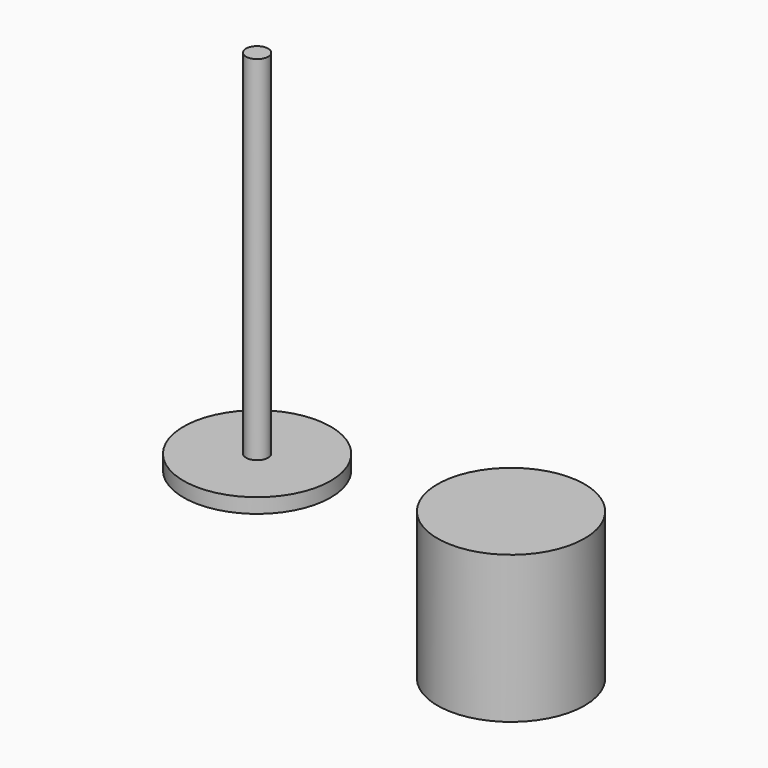
from build123d import *

# Parameters (mm, degrees)
F0_R     = 5
F0_R_2   = 0.75
F1_DEPTH = 1
F2_R     = 0.75
F3_DEPTH = 25
F4_R     = 5
F6_DEPTH = 10
F5_R     = 0.775
F7_DEPTH = 3.5


with BuildPart() as f1:
    # F0 (on Top) → F1 (new body)
    with BuildSketch(Plane.XY):
        Circle(F0_R)
        Circle(F0_R_2, mode=Mode.SUBTRACT)
    extrude(amount=F1_DEPTH)

    # F2 (on Top) → F3 (join)
    with BuildSketch(Plane.XY):
        Circle(F2_R)
    extrude(amount=F3_DEPTH)


with BuildPart() as f6:
    # F4 (on Top) → F6 (new body)
    with BuildSketch(Plane.XY):
        with Locations((25.460983, -10.252128)):
            Circle(F4_R)
    extrude(amount=F6_DEPTH)

    # F5 (on face) → F7 (cut)
    with BuildSketch(Plane.XY):
        with Locations((25.450855, -10.22889)):
            Circle(F5_R)
    extrude(amount=F7_DEPTH, mode=Mode.SUBTRACT)


solid = Compound([f1.part, f6.part])
